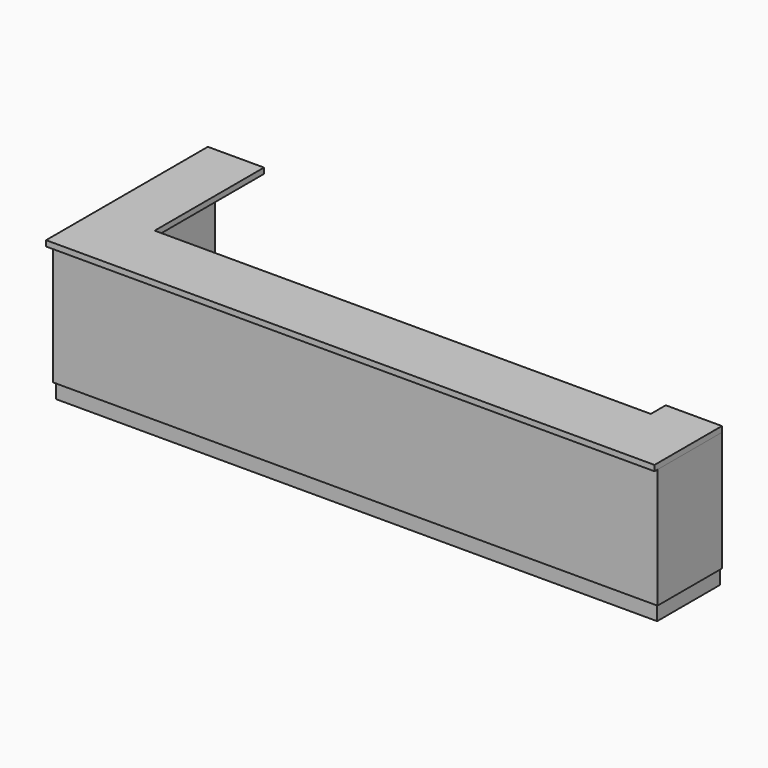
from build123d import *

# Parameters (mm, degrees)
F2_DEPTH  = 30
F4_DEPTH  = 720
F5_W      = 300
F5_H      = 100
F6_DEPTH  = 30
F7_W      = 411
F7_H      = 720
F8_DEPTH  = 19
F9_W      = 250
F9_H      = 250
F10_DEPTH = 720
F14_DEPTH = 80


with BuildPart() as f2:
    # F1 (on offset) → F2 (new body)
    with BuildSketch(Plane.XY.offset(770)):
        Polygon((0, 1080), (0, 0), (3250, 0), (3250, 350), (300, 350), (300, 1080), align=None)
    extrude(amount=F2_DEPTH)

    # F5 (on face) → F6 (join)
    with BuildSketch(Plane.XY.offset(800)):
        with Locations((3100, 400)):
            Rectangle(F5_W, F5_H)
    extrude(amount=-F6_DEPTH)


with BuildPart() as f4:
    # F3 (on face) → F4 (new body)
    with BuildSketch(Plane(origin=(0, 0, 770), x_dir=(1, 0, 0), z_dir=(0, 0, -1))):
        Polygon((3250, -20), (20, -20), (20, -1080), (39, -1080), (39, -39), (3250, -39), align=None)
    extrude(amount=F4_DEPTH)

    # F7 (on face) → F8 (join)
    with BuildSketch(Plane.YZ.offset(3250)):
        with Locations((244.5, 410)):
            Rectangle(F7_W, F7_H)
    extrude(amount=-F8_DEPTH)

    # F13 (on face) → F14 (cut)
    with BuildSketch(Plane(origin=(0, 0, 50), x_dir=(1, 0, 0), z_dir=(0, 0, -1))):
        Polygon((20, -1080), (29.5, -1080), (29.5, -29.5), (3240.5, -29.5), (3240.5, -450), (3250, -450), (3250, -20), (20, -20), align=None)
    extrude(amount=-F14_DEPTH, mode=Mode.SUBTRACT)


with BuildPart() as f10:
    # F9 (on face) → F10 (new body)
    with BuildSketch(Plane(origin=(0, 0, 50), x_dir=(1, 0, 0), z_dir=(0, 0, -1))):
        with Locations((3106, -164)):
            Rectangle(F9_W, F9_H)
    extrude(amount=-F10_DEPTH)


with BuildPart() as f11_1:
    # F11: copy of F10
    add(f10.part.moved(Location((-2940, 0, 0))))


with BuildPart() as f12_1:
    # F12: copy of F10
    add(f10.part.moved(Location((-1450, 0, 0))))


solid = Compound([f2.part, f4.part, f10.part, f11_1.part, f12_1.part])
